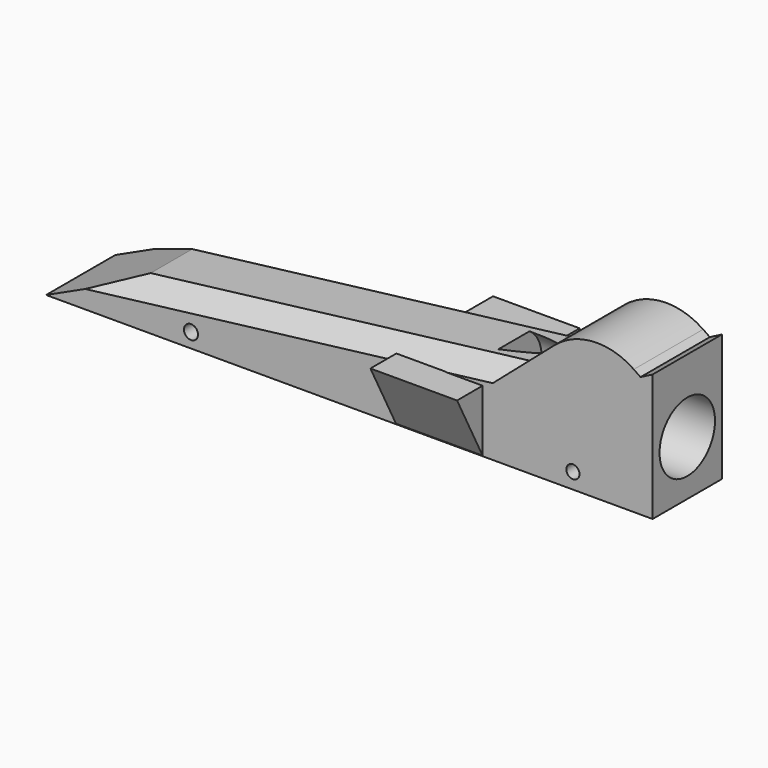
from build123d import *

# Parameters (mm, degrees)
F1_DEPTH = 25.4
F2_R     = 19.003291
F3_SIZE  = 5.08
F5_R     = 2.061825
F5_R_2   = 1.929241
F6_DEPTH = 25.401
F4_R     = 10.16
F7_DEPTH = 50.8
F9_DEPTH = 25.4


with BuildPart() as f1:
    # F0 (on Front) → F1 (new body)
    with BuildSketch(Plane.XZ):
        Polygon((-75.964235, 12.236824), (-102.57447, 0), (75.22553, 0), (75.22553, 37.305284), (71.687005, 35.474662), (57.608426, 45.148559), (35.248738, 25.777439), align=None)
    extrude(amount=F1_DEPTH)

    # F2
    f2_edges = [f1.edges().sort_by_distance(p)[0] for p in [
        (57.608426, -12.7, 45.148559),
    ]]
    fillet(f2_edges, radius=F2_R)

    # F3
    f3_edges = [f1.edges().sort_by_distance(p)[0] for p in [
        (-20.357748, -25.4, 19.007131),
        (-20.357748, 0, 19.007131),
    ]]
    chamfer(f3_edges, length=F3_SIZE)

    # F5 (on face) → F6 (cut, through all)
    with BuildSketch(Plane.XZ.offset(25.4)):
        with Locations((-60.097024, 4.242708)):
            Circle(F5_R)
        with Locations((51.858693, 4.597574)):
            Circle(F5_R_2)
    extrude(amount=-F6_DEPTH, mode=Mode.SUBTRACT)

    # F4 (on face) → F7 (cut)
    with BuildSketch(Plane.YZ.offset(75.22553)):
        with Locations((-12.7, 16.054668)):
            Circle(F4_R)
    extrude(amount=-F7_DEPTH, mode=Mode.SUBTRACT)

    # F8 (on Right) → F9 (join)
    with BuildSketch(Plane.YZ):
        Polygon((10.153438, 18.566389), (0, 18.566389), (0, 0), align=None)
        Polygon((-25.318548, 0), (-25.265535, 18.204596), (-34.777782, 18.204596), align=None)
    extrude(amount=F9_DEPTH)


solid = f1.part
